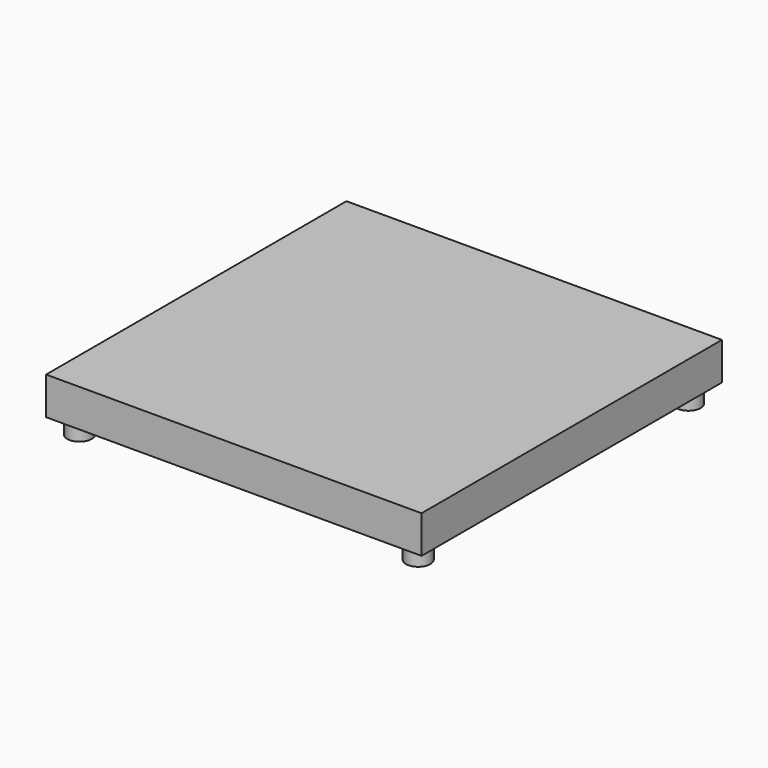
from build123d import *

# Parameters (mm, degrees)
F0_W     = 25.4
F0_H     = 25.4
F1_DEPTH = 1.27
F2_R     = 0.8255
F3_DEPTH = 1.143


with BuildPart() as f1:
    # F0 (on Top) → F1 (new body, symmetric)
    with BuildSketch(Plane.XY):
        Rectangle(F0_W, F0_H)
    extrude(amount=F1_DEPTH, both=True)

    # F2 (on face) → F3 (join)
    with BuildSketch(Plane(origin=(0, 0, -1.27), x_dir=(1, 0, 0), z_dir=(0, 0, -1))):
        with Locations((-11.455952, 11.43)):
            Circle(F2_R)
        with Locations((11.455952, 11.43)):
            Circle(F2_R)
        with Locations((11.455952, -11.43)):
            Circle(F2_R)
        with Locations((-11.455952, -11.43)):
            Circle(F2_R)
    extrude(amount=F3_DEPTH)


solid = f1.part
